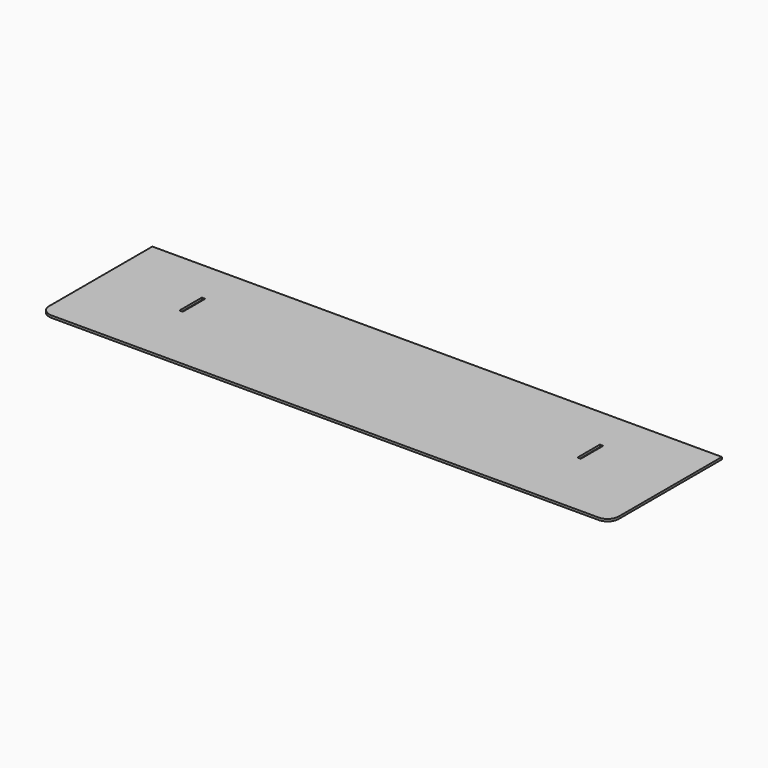
from build123d import *

# Parameters (mm, degrees)
F0_W     = 3
F0_H     = 25
F1_DEPTH = 2


with BuildPart() as f1:
    # F0 (on Top) → F1 (new body)
    with BuildSketch(Plane.XY):
        with BuildLine():
            Line((235.637323, 32.039673), (-272.362677, 32.039673))
            Line((-272.362677, 32.039673), (-272.362677, -82.960327))
            ThreePointArc((-272.362677, -82.960327), (-269.433745, -90.031395), (-262.362677, -92.960327))
            Line((-262.362677, -92.960327), (225.637323, -92.960327))
            ThreePointArc((225.637323, -92.960327), (232.708391, -90.031395), (235.637323, -82.960327))
            Line((235.637323, -82.960327), (235.637323, 32.039673))
        make_face()
        with Locations((-195.862677, -19.052327)):
            Rectangle(F0_W, F0_H, mode=Mode.SUBTRACT)
        with Locations((159.137323, -19.052327)):
            Rectangle(F0_W, F0_H, mode=Mode.SUBTRACT)
    extrude(amount=F1_DEPTH)


solid = f1.part
